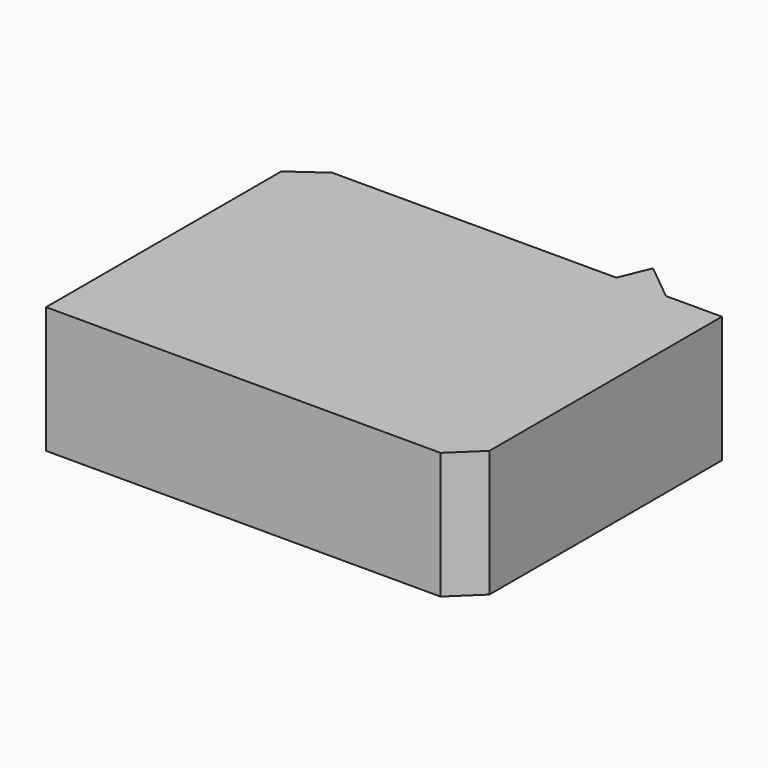
from build123d import *

# Parameters (mm, degrees)
F1_DEPTH = 12.7


with BuildPart() as f1:
    # F0 (on Top) → F1 (new body)
    with BuildSketch(Plane.XY):
        Polygon((8.306665788, 14.6107980981), (-20.214330405, 14.6107980981), (-20.214330405, -14.5559702069), (18.9034491777, -14.5559702069), (18.9034491777, 14.6107980981), (13.2803532164, 14.6107980981), (16.125800088, 12.2895119712), (9.568403475, -5.3119254299), (3.5286939237, 3.1436665449), align=None)
        Polygon((-20.214330405, -14.5559702069), (-20.214330405, 14.6107980981), (-23.4641304458, 12.2895119712), (-23.4641304458, -17.2187797725), align=None)
        Polygon((9.568403475, 17.6389683038), (8.306665788, 14.6107980981), (13.2803532164, 14.6107980981), align=None)
        Polygon((13.2803532164, 14.6107980981), (8.306665788, 14.6107980981), (3.5286939237, 3.1436665449), (9.568403475, -5.3119254299), (16.125800088, 12.2895119712), align=None)
        Polygon((18.9034491777, -14.5559702069), (-20.214330405, -14.5559702069), (-23.4641304458, -17.2187797725), (16.125800088, -17.2187797725), align=None)
    extrude(amount=F1_DEPTH)


solid = f1.part
